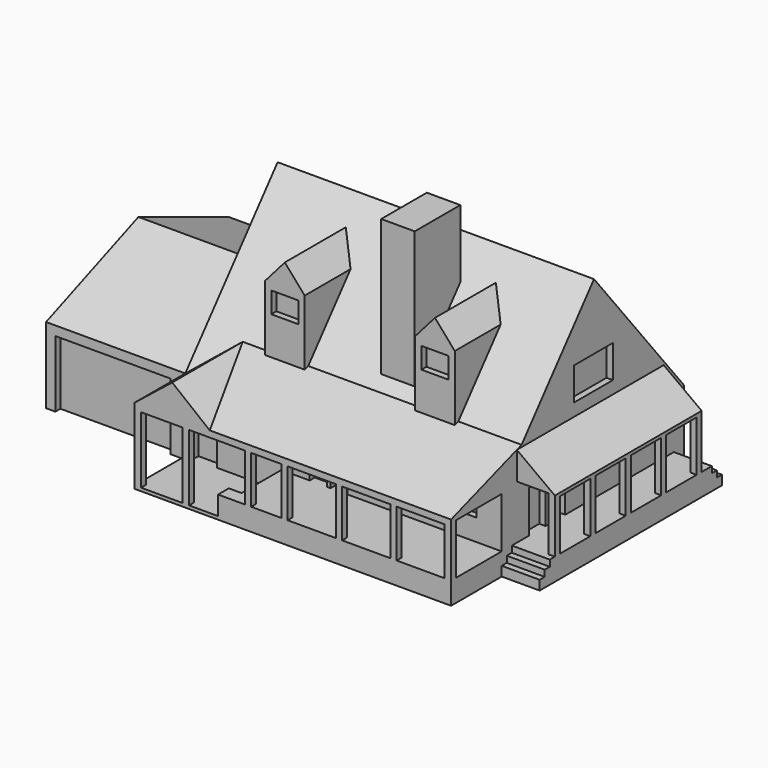
from build123d import *

# Parameters (mm, degrees)
F0_W       = 72
F0_H       = 36
F1_DEPTH   = 12
F3_DEPTH   = 50
F5_DEPTH   = 22
F6_W       = 50
F6_H       = 0.5
F7_DEPTH   = 10
F8_DEPTH   = 10
F13_W      = 1
F13_H      = 10
F14_DEPTH  = 1
F15_DEPTH  = 2
F13_W_2    = 34.824172408
F16_DEPTH  = 3
F17_W      = 1
F17_H      = 1
F18_DEPTH  = 8
F19_DEPTH  = 8
F20_DEPTH  = 8
F21_DEPTH  = 8
F22_DEPTH  = 8
F13_H_2    = 1
F23_DEPTH  = 11
F24_DEPTH  = 11
F25_W      = 1
F25_H      = 2.1276606619
F27_DEPTH  = 2
F26_W      = 1
F26_H      = 2.1276606619
F28_DEPTH  = 1
F30_DEPTH  = 6
F31_W      = 6
F31_H      = 1
F32_DEPTH  = 2
F33_DEPTH  = 1
F34_DEPTH  = 2
F35_DEPTH  = 1
F37_START  = -4
F37_DEPTH  = 29
F38_W      = 1
F38_H      = 1
F39_DEPTH  = 8.5
F40_DEPTH  = 8.5
F41_DEPTH  = 8.5
F42_DEPTH  = 8.5
F43_DEPTH  = 8.5
F45_W      = 6.2820501626
F45_H      = 5.7211536914
F46_FACE_W = 6.2820501626
F46_FACE_H = 4.3090674287
F47_FACE_W = 6.2820501626
F47_FACE_H = 4.3090674287
F51_W      = 5.2950629033
F51_H      = 9.0086418204
F29_W      = 7.7212667207
F29_H      = 5.1708519459
F53_DEPTH  = 1
F54_W      = 4.2820501626
F54_H      = 3.3128206088
F55_DEPTH  = 1
F56_W      = 18.1802324951
F56_H      = 10.5248987675
F56_W_2    = 3.7259496748
F56_H_2    = 7.330328308
F56_W_3    = 6.5529178828
F56_H_3    = 4.3392418884
F56_W_4    = 2.7
F56_H_4    = 5.9705214724
F56_W_5    = 12.0937262764
F56_H_5    = 3.5406085663
F57_DEPTH  = 1
F58_W      = 2.4403305513
F58_H      = 1
F59_DEPTH  = 12
F62_DEPTH  = 12.1
F63_W      = 2.3901699437
F63_H      = 6.5
F65_DEPTH  = 1
F64_W      = 2.3901699437
F64_H      = 6.5
F66_DEPTH  = 1
F68_SIZE   = 0.5
F67_W      = 2.3901699437
F67_H      = 6.5
F69_DEPTH  = 1
F70_SIZE   = 0.5
F72_W      = 1
F72_H      = 0.5
F73_DEPTH  = 48
F71_W      = 2.3901699437
F71_H      = 6.5
F74_DEPTH  = 1
F75_SIZE   = 0.5
F76_W      = 2.3901699437
F76_H      = 6.5
F77_DEPTH  = 1
F78_SIZE   = 0.5
F29_W_2    = 3.2831281424
F29_H_2    = 6.6617099717
F29_W_3    = 3
F29_H_3    = 4.5
F79_DEPTH  = 1
F80_W      = 7.7001219615
F80_H      = 4.592878744
F81_DEPTH  = 1
F82_W      = 8.5605797358
F82_H      = 5.5077117868
F83_DEPTH  = 1
F82_W_2    = 2.2853813134
F82_H_2    = 3.2735690475
F84_DEPTH  = 1
F85_W      = 1
F85_H      = 0.5
F86_DEPTH  = 27


with BuildPart() as f1:
    # F0 (on Top) → F1 (new body)
    with BuildSketch(Plane.XY):
        with Locations((-17.9916281849, -0.2358976454)):
            Rectangle(F0_W, F0_H)
    extrude(amount=F1_DEPTH)

    # F2 (on face) → F3 (join)
    with BuildSketch(Plane.YZ.offset(18.0083718151)):
        Polygon((-18.2358976454, 12), (17.7641023546, 12), (0, 33.9695699513), align=None)
    extrude(amount=-F3_DEPTH)

    # F4 (on face) → F5 (join, through all)
    with BuildSketch(Plane(origin=(-53.9916281849, 0, 0), x_dir=(0, -1, 0), z_dir=(-1, 0, 0))):
        Polygon((0, 19.2015562207), (-17.7641023546, 12), (18.2358976454, 12), align=None)
    extrude(amount=-F5_DEPTH)

    # F6 (on face) → F7 (join)
    with BuildSketch(Plane.XZ.offset(18.2358976454)):
        with Locations((-6.9916281849, 11.75)):
            Rectangle(F6_W, F6_H)
    extrude(amount=F7_DEPTH)

    # F6 (on face) → F8 (join)
    with BuildSketch(Plane.XZ.offset(18.2358976454)):
        with Locations((-6.9916281849, 0.25)):
            Rectangle(F6_W, F6_H)
    extrude(amount=F8_DEPTH)

    # F9 (on face) → F10 (join, up to the next surface of F1)
    with BuildSketch(Plane.XZ.offset(28.2358976454)):
        Polygon((-26.0598938912, 16.733692959), (-31.9916281849, 12), (-20.1281595975, 12), align=None)
    extrude(until=Until.NEXT, dir=(0, 1, 0))

    # F11 (on face) → F12 (join, up to the next surface of F1)
    with BuildSketch(Plane.YZ.offset(18.0083718151)):
        Polygon((-14.3066837157, 16.733692959), (-28.2358976454, 12), (-18.2358976454, 12), align=None)
    extrude(until=Until.NEXT, dir=(-1, 0, 0))

    # F13 (on face) → F14 (join)
    with BuildSketch(Plane.XY.offset(0.5)):
        with Locations((-18.3158005929, -23.2358976454)):
            Rectangle(F13_W, F13_H)
    extrude(amount=F14_DEPTH)

    # F13 (on face) → F15 (join)
    with BuildSketch(Plane.XY.offset(0.5)):
        with Locations((-17.3158005929, -23.2358976454)):
            Rectangle(F13_W, F13_H)
    extrude(amount=F15_DEPTH)

    # F13 (on face) → F16 (join)
    with BuildSketch(Plane.XY.offset(0.5)):
        with Locations((0.5962856111, -23.2358976454)):
            Rectangle(F13_W_2, F13_H)
    extrude(amount=F16_DEPTH)

    # F17 (on face) → F18 (join, through all)
    with BuildSketch(Plane.XY.offset(3.5)):
        with Locations((-14.0816532895, -27.7358976454)):
            Rectangle(F17_W, F17_H)
    extrude(amount=F18_DEPTH)

    # F17 (on face) → F19 (join, through all)
    with BuildSketch(Plane.XY.offset(3.5)):
        with Locations((-8.3204968274, -27.7358976454)):
            Rectangle(F17_W, F17_H)
    extrude(amount=F19_DEPTH)

    # F17 (on face) → F20 (join, through all)
    with BuildSketch(Plane.XY.offset(3.5)):
        with Locations((0.2891260535, -27.7358976454)):
            Rectangle(F17_W, F17_H)
    extrude(amount=F20_DEPTH)

    # F17 (on face) → F21 (join, through all)
    with BuildSketch(Plane.XY.offset(3.5)):
        with Locations((8.8987489343, -27.7358976454)):
            Rectangle(F17_W, F17_H)
    extrude(amount=F21_DEPTH)

    # F17 (on face) → F22 (join, through all)
    with BuildSketch(Plane.XY.offset(3.5)):
        with Locations((17.5083718151, -27.7358976454)):
            Rectangle(F17_W, F17_H)
    extrude(amount=F22_DEPTH)

    # F13 (on face) → F23 (join, through all)
    with BuildSketch(Plane.XY.offset(0.5)):
        with Locations((-31.4916281849, -27.7358976454)):
            Rectangle(F13_W, F13_H_2)
    extrude(amount=F23_DEPTH)

    # F13 (on face) → F24 (join, through all)
    with BuildSketch(Plane.XY.offset(0.5)):
        with Locations((-23.9017895311, -27.7358976454)):
            Rectangle(F13_W, F13_H_2)
    extrude(amount=F24_DEPTH)

    # F25 (on face) → F27 (join)
    with BuildSketch(Plane.XY.offset(1.5)):
        with Locations((-18.3158005929, -27.1720673144)):
            Rectangle(F25_W, F25_H)
    extrude(amount=F27_DEPTH)

    # F26 (on face) → F28 (join)
    with BuildSketch(Plane.XY.offset(2.5)):
        with Locations((-17.3158005929, -27.1720673144)):
            Rectangle(F26_W, F26_H)
    extrude(amount=F28_DEPTH)

    # F29 (on face) → F30 (join)
    with BuildSketch(Plane.YZ.offset(18.0083718151)):
        Polygon((-12.8520643339, 3.5), (-18.2358976454, 3.5), (-18.2358976454, 0), (17.7641023546, 0), (17.7641023546, 3.5), (-5.6858080491, 3.5), (-8.9689361915, 3.5), (-9.5689361915, 3.5), align=None)
    extrude(amount=F30_DEPTH)

    # F31 (on face) → F32 (cut)
    with BuildSketch(Plane.XY.offset(3.5)):
        with Locations((21.0083718151, -17.7358976454)):
            Rectangle(F31_W, F31_H)
    extrude(amount=-F32_DEPTH, mode=Mode.SUBTRACT)

    # F31 (on face) → F33 (cut)
    with BuildSketch(Plane.XY.offset(3.5)):
        with Locations((21.0083718151, -16.7358976454)):
            Rectangle(F31_W, F31_H)
    extrude(amount=-F33_DEPTH, mode=Mode.SUBTRACT)

    # F31 (on face) → F34 (cut)
    with BuildSketch(Plane.XY.offset(3.5)):
        with Locations((21.0083718151, 17.2641023546)):
            Rectangle(F31_W, F31_H)
    extrude(amount=-F34_DEPTH, mode=Mode.SUBTRACT)

    # F31 (on face) → F35 (cut)
    with BuildSketch(Plane.XY.offset(3.5)):
        with Locations((21.0083718151, 16.2641023546)):
            Rectangle(F31_W, F31_H)
    extrude(amount=-F35_DEPTH, mode=Mode.SUBTRACT)

    # F36 (on face) → F37 (join)
    with BuildSketch(Plane(origin=(0, 17.7641023546, 0), x_dir=(-1, 0, 0), z_dir=(0, 1, 0)).offset(F37_START)):
        Polygon((-18.0083718151, 12), (-18.0083718151, 16.4085291326), (-24.0083718151, 12), align=None)
    extrude(amount=-F37_DEPTH)

    # F38 (on face) → F39 (join, through all)
    with BuildSketch(Plane.XY.offset(3.5)):
        with Locations((23.5083718151, -14.7358976454)):
            Rectangle(F38_W, F38_H)
    extrude(amount=F39_DEPTH)

    # F38 (on face) → F40 (join, through all)
    with BuildSketch(Plane.XY.offset(3.5)):
        with Locations((23.5083718151, -7.7358976454)):
            Rectangle(F38_W, F38_H)
    extrude(amount=F40_DEPTH)

    # F38 (on face) → F41 (join, through all)
    with BuildSketch(Plane.XY.offset(3.5)):
        with Locations((23.5083718151, -0.7358976454)):
            Rectangle(F38_W, F38_H)
    extrude(amount=F41_DEPTH)

    # F38 (on face) → F42 (join, through all)
    with BuildSketch(Plane.XY.offset(3.5)):
        with Locations((23.5083718151, 6.2641023546)):
            Rectangle(F38_W, F38_H)
    extrude(amount=F42_DEPTH)

    # F38 (on face) → F43 (join, through all)
    with BuildSketch(Plane.XY.offset(3.5)):
        with Locations((23.5083718151, 13.2641023546)):
            Rectangle(F38_W, F38_H)
    extrude(amount=F43_DEPTH)

    # F45 (on offset) → F46 (join, up to the next surface of F1)
    with BuildSketch(Plane.XZ.offset(15)):
        with Locations((-18.8506031036, 23.9503206685)):
            Rectangle(F45_W, F45_H)
        Polygon((-18.8506031036, 30.4006431252), (-21.9916281849, 26.8108975142), (-15.7095780224, 26.8108975142), align=None)
    extrude(until=Until.NEXT, dir=(0, 1, 0))

    # F45 (on offset) → F47 (join, up to the next surface of F1)
    with BuildSketch(Plane.XZ.offset(15)):
        with Locations((4.8673467338, 23.9503206685)):
            Rectangle(F45_W, F45_H)
        Polygon((4.8673467338, 30.4006431252), (1.7263216525, 26.8108975142), (8.0083718151, 26.8108975142), align=None)
    extrude(until=Until.NEXT, dir=(0, 1, 0))

    # F46_face (on face) → F48 (join, up to the next surface of F1)
    with BuildSketch(Plane(origin=(-18.8506031036, -12.8454662856, 21.0897438228), x_dir=(1, 0, 0), z_dir=(0, 0, -1))):
        Rectangle(F46_FACE_W, F46_FACE_H)
    extrude(until=Until.NEXT)

    # F47_face (on face) → F49 (join, up to the next surface of F1)
    with BuildSketch(Plane(origin=(4.8673467338, -12.8454662856, 21.0897438228), x_dir=(1, 0, 0), z_dir=(0, 0, -1))):
        Rectangle(F47_FACE_W, F47_FACE_H)
    extrude(until=Until.NEXT)

    # F51 (on offset) → F52 (join, up to the next surface of F1)
    with BuildSketch(Plane.XY.offset(40)):
        with Locations((-2.6475314517, -8.4023226518)):
            Rectangle(F51_W, F51_H)
    extrude(until=Until.NEXT, dir=(0, 0, -1))

    # F29 (on face) → F53 (cut)
    with BuildSketch(Plane.YZ.offset(18.0083718151)):
        with Locations((-0.1393666396, 20.9901053458)):
            Rectangle(F29_W, F29_H)
    extrude(amount=-F53_DEPTH, mode=Mode.SUBTRACT)

    # F54 (on face) → F55 (cut)
    with BuildSketch(Plane.XZ.offset(15)):
        with Locations((4.8673467338, 24.1544872098)):
            Rectangle(F54_W, F54_H)
        with Locations((-18.8506031036, 24.1544872098)):
            Rectangle(F54_W, F54_H)
    extrude(amount=-F55_DEPTH, mode=Mode.SUBTRACT)

    # F56 (on face) → F57 (cut)
    with BuildSketch(Plane.XZ.offset(18.2358976454)):
        with Locations((-43.4403028339, 5.2624493837)):
            Rectangle(F56_W, F56_H)
        with Locations((-28.8471616805, 4.165164154)):
            Rectangle(F56_W_2, F56_H_2)
        with Locations((-21.7132726684, 7.0527188946)):
            Rectangle(F56_W_3, F56_H_3)
        with Locations((-10.9878653079, 6.4852607362)):
            Rectangle(F56_W_4, F56_H_4)
        with Locations((-7.6878653079, 6.4852607362)):
            Rectangle(F56_W_4, F56_H_4)
        with Locations((7.96773205, 8.670975687)):
            Rectangle(F56_W_5, F56_H_5)
    extrude(amount=-F57_DEPTH, mode=Mode.SUBTRACT)

    # F58 (on Top) → F59 (join)
    with BuildSketch(Plane.XY):
        with Locations((-14.9916281849, 22.0193849361)):
            Rectangle(F58_W, F58_H)
        Polygon((-13.7714629093, 22.5193849361), (-13.7714629093, 21.5193849361), (-13.183677657, 22.3284019305), (-13.446543213, 22.5193849361), align=None)
        Polygon((-16.7995787128, 22.3284019305), (-16.2117934606, 21.5193849361), (-16.2117934606, 22.5193849361), (-16.5367131568, 22.5193849361), align=None)
        Polygon((-18.7738476007, 20.8940116217), (-18.1860623484, 20.0849946274), (-16.2117934606, 21.5193849361), (-16.7995787128, 22.3284019305), align=None)
        Polygon((-19.1371188647, 20.3940116217), (-18.1860623484, 20.0849946274), (-18.7738476007, 20.8940116217), (-19.0367131568, 20.7030286161), align=None)
        Polygon((-19.891222477, 18.073119349), (-18.9401659607, 17.7641023546), (-18.1860623484, 20.0849946274), (-19.1371188647, 20.3940116217), align=None)
        Polygon((-19.891222477, 18.073119349), (-19.9916281849, 17.7641023546), (-18.9401659607, 17.7641023546), align=None)
        Polygon((-11.2094087691, 20.8940116217), (-11.7971940214, 20.0849946274), (-10.8461375051, 20.3940116217), (-10.946543213, 20.7030286161), align=None)
        Polygon((-11.7971940214, 20.0849946274), (-11.0430904092, 17.7641023546), (-10.0920338929, 18.073119349), (-10.8461375051, 20.3940116217), align=None)
        Polygon((-10.0920338929, 18.073119349), (-11.0430904092, 17.7641023546), (-9.9916281849, 17.7641023546), align=None)
        Polygon((-13.7714629093, 21.5193849361), (-11.7971940214, 20.0849946274), (-11.2094087691, 20.8940116217), (-13.183677657, 22.3284019305), align=None)
        Polygon((-18.1860623484, 20.0849946274), (-18.9401659607, 17.7641023546), (-11.0430904092, 17.7641023546), (-11.7971940214, 20.0849946274), (-13.7714629093, 21.5193849361), (-16.2117934606, 21.5193849361), align=None)
    extrude(amount=F59_DEPTH)

    # F61 (on offset) → F62 (join)
    with BuildSketch(Plane.YZ.offset(-8.7)):
        Polygon((23.6897710711, 12), (14.4527659629, 16.0952610517), (17.7641023546, 12), (20.7030286161, 12), (22.5193849361, 12), align=None)
    extrude(amount=-F62_DEPTH)

    # F63 (on face) → F65 (cut)
    with BuildSketch(Plane(origin=(0, 22.5193849361, 0), x_dir=(-1, 0, 0), z_dir=(0, 1, 0))):
        with Locations((14.9916281849, 7.25)):
            Rectangle(F63_W, F63_H)
    extrude(amount=-F65_DEPTH, mode=Mode.SUBTRACT)

    # F64 (on face) → F66 (cut)
    with BuildSketch(Plane(origin=(-16.4218977733, 22.6028031951, 0), x_dir=(-0.8090169944, -0.5877852523, 0), z_dir=(-0.5877852523, 0.8090169944, 0))):
        with Locations((1.6870045907, 7.25)):
            Rectangle(F64_W, F64_H)
    extrude(amount=-F66_DEPTH, mode=Mode.SUBTRACT)

    # F68
    f68_edges = [f1.edges().sort_by_distance(p)[0] for p in [
        (-16.232084, 21.504643, 7.25),
        (-16.186713, 21.519385, 7.25),
    ]]
    chamfer(f68_edges, length=F68_SIZE)

    # F67 (on face) → F69 (cut)
    with BuildSketch(Plane(origin=(-23.303336258, 7.5717129382, 0), x_dir=(-0.3090169944, -0.9510565163, 0), z_dir=(-0.9510565163, 0.3090169944, 0))):
        with Locations((-12.261997418, 7.25)):
            Rectangle(F67_W, F67_H)
    extrude(amount=-F69_DEPTH, mode=Mode.SUBTRACT)

    # F70
    f70_edges = [f1.edges().sort_by_distance(p)[0] for p in [
        (-18.165772, 20.099736, 7.25),
        (-18.193813, 20.061142, 7.25),
    ]]
    chamfer(f70_edges, length=F70_SIZE)

    # F72 (on face) → F73 (join, through all)
    with BuildSketch(Plane(origin=(17.0083718151, 0, 0), x_dir=(0, -1, 0), z_dir=(-1, 0, 0))):
        with Locations((27.7358976454, 11.25)):
            Rectangle(F72_W, F72_H)
    extrude(amount=F73_DEPTH)

    # F71 (on face) → F74 (cut)
    with BuildSketch(Plane(origin=(6.0629374709, 8.3449175199, 0), x_dir=(-0.8090169944, 0.5877852523, 0), z_dir=(0.5877852523, 0.8090169944, 0))):
        with Locations((22.5699593592, 7.25)):
            Rectangle(F71_W, F71_H)
    extrude(amount=-F74_DEPTH, mode=Mode.SUBTRACT)

    # F75
    f75_edges = [f1.edges().sort_by_distance(p)[0] for p in [
        (-13.751173, 21.504643, 7.25),
        (-13.796543, 21.519385, 7.25),
    ]]
    chamfer(f75_edges, length=F75_SIZE)

    # F76 (on face) → F77 (cut)
    with BuildSketch(Plane(origin=(-3.8167739019, -1.2401450168, 0), x_dir=(-0.3090169944, 0.9510565163, 0), z_dir=(0.9510565163, 0.3090169944, 0))):
        with Locations((21.527333183, 7.25)):
            Rectangle(F76_W, F76_H)
    extrude(amount=-F77_DEPTH, mode=Mode.SUBTRACT)

    # F78
    f78_edges = [f1.edges().sort_by_distance(p)[0] for p in [
        (-11.789444, 20.061142, 7.25),
        (-11.817484, 20.099736, 7.25),
    ]]
    chamfer(f78_edges, length=F78_SIZE)

    # F29 (on face) → F79 (cut)
    with BuildSketch(Plane.YZ.offset(18.0083718151)):
        with Locations((-11.2105002627, 6.8308549859)):
            Rectangle(F29_W_2, F29_H_2)
        with Locations((-7.3273721203, 6.8308549859)):
            Rectangle(F29_W_2, F29_H_2)
        with Locations((4.044045914, 8.972309161)):
            Rectangle(F29_W_3, F29_H_3)
        with Locations((12.2704726979, 8.972309161)):
            Rectangle(F29_W_3, F29_H_3)
    extrude(amount=-F79_DEPTH, mode=Mode.SUBTRACT)

    # F80 (on face) → F81 (cut)
    with BuildSketch(Plane(origin=(-31.9916281849, 0, 0), x_dir=(0, -1, 0), z_dir=(-1, 0, 0))):
        with Locations((0, 22.6288136356)):
            Rectangle(F80_W, F80_H)
    extrude(amount=-F81_DEPTH, mode=Mode.SUBTRACT)

    # F82 (on face) → F83 (cut)
    with BuildSketch(Plane(origin=(0, 17.7641023546, 0), x_dir=(-1, 0, 0), z_dir=(0, 1, 0))):
        with Locations((-10.0611427333, 7.9561860766)):
            Rectangle(F82_W, F82_H)
    extrude(amount=-F83_DEPTH, mode=Mode.SUBTRACT)

    # F82 (on face) → F84 (cut)
    with BuildSketch(Plane(origin=(0, 17.7641023546, 0), x_dir=(-1, 0, 0), z_dir=(0, 1, 0))):
        with Locations((4.3397608679, 9.0629290789)):
            Rectangle(F82_W_2, F82_H_2)
    extrude(amount=-F84_DEPTH, mode=Mode.SUBTRACT)

    # F85 (on face) → F86 (join, through all)
    with BuildSketch(Plane(origin=(0, -14.2358976454, 0), x_dir=(-1, 0, 0), z_dir=(0, 1, 0))):
        with Locations((-23.5083718151, 11.7500000001)):
            Rectangle(F85_W, F85_H)
    extrude(amount=F86_DEPTH)


solid = f1.part
